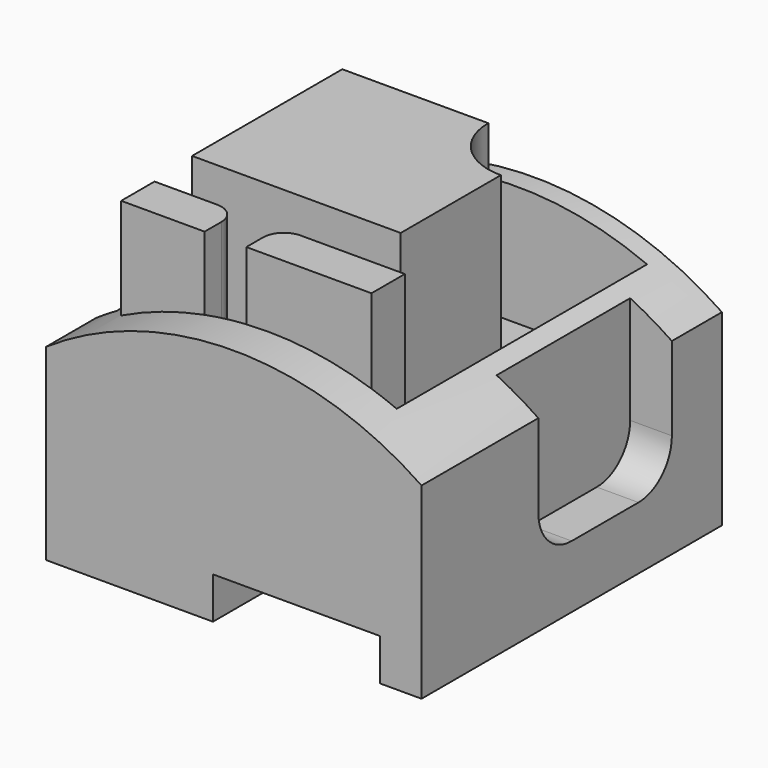
from build123d import *

# Parameters (mm, degrees)
F1_DEPTH  = 90
F3_W      = 60
F3_H      = 75
F4_DEPTH  = 28.8572172234
F6_DEPTH  = 75
F7_W      = 20
F7_H      = 10
F7_W_2    = 30
F8_DEPTH  = 45
F9_R      = 5
F11_DEPTH = 50
F13_W     = 5
F13_H     = 40
F13_W_2   = 10
F14_DEPTH = 65.001
F15_R     = 10


with BuildPart() as f1:
    # F0 (on Front) → F1 (new body)
    with BuildSketch(Plane.XZ):
        with BuildLine():
            Line((0, 45), (0, 0))
            Line((0, 0), (40, 0))
            Line((40, 0), (40, 10))
            Line((40, 10), (80, 10))
            Line((80, 10), (80, 0))
            Line((80, 0), (90, 0))
            Line((90, 0), (90, 45))
            ThreePointArc((90, 45), (45, 58.8562172234), (0, 45))
        make_face()
    extrude(amount=-F1_DEPTH)

    # F3 (on offset) → F4 (cut, through all)
    with BuildSketch(Plane(origin=(0, 0, 30), x_dir=(1, 0, 0), z_dir=(0, 0, -1))):
        with Locations((40, -47.5)):
            Rectangle(F3_W, F3_H)
    extrude(amount=-F4_DEPTH, mode=Mode.SUBTRACT)

    # F5 (on face) → F6 (cut, through all)
    with BuildSketch(Plane.XZ.offset(-85)):
        Polygon((70, 54.8496379912), (70, 30), (76.658440432, 54.8496379912), align=None)
    extrude(amount=F6_DEPTH, mode=Mode.SUBTRACT)

    # F7 (on face) → F8 (join)
    with BuildSketch(Plane.XY.offset(30)):
        with Locations((20, 15)):
            Rectangle(F7_W, F7_H)
        with Locations((55, 15)):
            Rectangle(F7_W_2, F7_H)
    extrude(amount=F8_DEPTH)

    # F9
    f9_edges = [f1.edges().sort_by_distance(p)[0] for p in [
        (40, 20, 52.5),
        (30, 20, 52.5),
    ]]
    fillet(f9_edges, radius=F9_R)

    # F10 (on face) → F11 (join)
    with BuildSketch(Plane.XY.offset(30)):
        with BuildLine():
            Line((50, 70), (15, 70))
            Line((15, 70), (15, 25))
            Line((15, 25), (65, 25))
            Line((65, 25), (65, 55))
            ThreePointArc((65, 55), (54.3933982822, 59.3933982822), (50, 70))
        make_face()
    extrude(amount=F11_DEPTH)

    # F13 (on offset) → F14 (cut, through all)
    with BuildSketch(Plane(origin=(0, 0, 15), x_dir=(1, 0, 0), z_dir=(0, 0, -1))):
        with Locations((2.5, -35)):
            Rectangle(F13_W, F13_H)
        with Locations((85, -55)):
            Rectangle(F13_W_2, F13_H)
    extrude(amount=-F14_DEPTH, mode=Mode.SUBTRACT)

    # F15
    f15_edges = [f1.edges().sort_by_distance(p)[0] for p in [
        (2.5, 55, 15),
        (2.5, 15, 15),
        (85, 35, 15),
        (85, 75, 15),
    ]]
    fillet(f15_edges, radius=F15_R)


solid = f1.part
